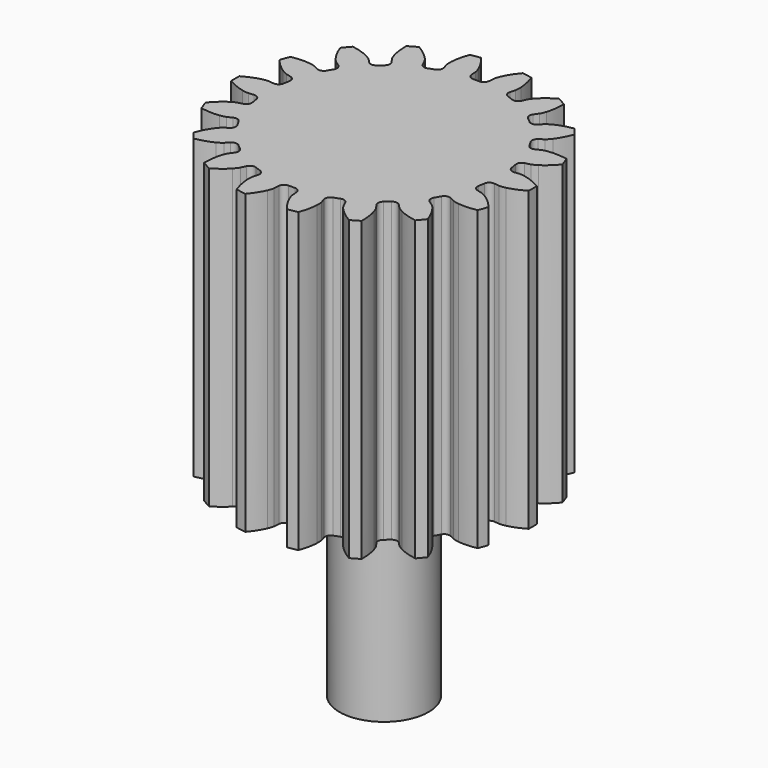
from build123d import *

# Parameters (mm, degrees)
PAD_DEPTH    = 40
SKETCH001_R  = 6
PAD001_DEPTH = 26.5


with BuildPart() as part:
    # InvoluteGear → Pad (new body)
    with BuildSketch(Plane.XY):
        with BuildLine():
            Line((16.148031, -1.655623), (16.861014, -1.727203))
            add(Edge.make_bspline(
                [(16.861014, -1.727203), (16.952403, -1.73071), (17.227358, -1.729693), (17.686584, -1.629099)],
                knots=[0, 0, 0, 0, 1, 1, 1, 1], degree=3))
            add(Edge.make_bspline(
                [(17.686584, -1.629099), (18.235477, -1.506825), (19.023934, -1.243407), (19.990683, -0.680651)],
                knots=[0, 0, 0, 0, 1, 1, 1, 1], degree=3))
            ThreePointArc((19.990683, -0.680651), (20.002268, 0), (19.990683, 0.680651))
            add(Edge.make_bspline(
                [(19.990683, 0.680651), (19.023934, 1.243407), (18.235477, 1.506825), (17.686584, 1.629099)],
                knots=[0, 0, 0, 0, 1, 1, 1, 1], degree=3))
            add(Edge.make_bspline(
                [(17.686584, 1.629099), (17.227358, 1.729693), (16.952403, 1.73071), (16.861014, 1.727203)],
                knots=[0, 0, 0, 0, 1, 1, 1, 1], degree=3))
            Line((16.861014, 1.727203), (16.148031, 1.655623))
            ThreePointArc((16.148031, 1.655623), (15.611915, 1.809049), (15.329886, 2.29011))
            ThreePointArc((15.329886, 2.29011), (15.26452, 2.691547), (15.188644, 3.09113))
            ThreePointArc((15.188644, 3.09113), (15.289133, 3.639639), (15.740442, 3.967175))
            Line((15.740442, 3.967175), (16.434909, 4.143766))
            add(Edge.make_bspline(
                [(16.434909, 4.143766), (16.521986, 4.171728), (16.780011, 4.266723), (17.177137, 4.518316)],
                knots=[0, 0, 0, 0, 1, 1, 1, 1], degree=3))
            add(Edge.make_bspline(
                [(17.177137, 4.518316), (17.651107, 4.820948), (18.301921, 5.338148), (19.017893, 6.197614)],
                knots=[0, 0, 0, 0, 1, 1, 1, 1], degree=3))
            ThreePointArc((19.017893, 6.197614), (18.795984, 6.841179), (18.552301, 7.476819))
            add(Edge.make_bspline(
                [(18.552301, 7.476819), (17.45138, 7.674989), (16.620378, 7.652853), (16.062768, 7.58002)],
                knots=[0, 0, 0, 0, 1, 1, 1, 1], degree=3))
            add(Edge.make_bspline(
                [(16.062768, 7.58002), (15.596831, 7.517484), (15.33811, 7.424399), (15.253432, 7.389847)],
                knots=[0, 0, 0, 0, 1, 1, 1, 1], degree=3))
            Line((15.253432, 7.389847), (14.607929, 7.078729))
            ThreePointArc((14.607929, 7.078729), (14.05167, 7.03954), (13.622117, 7.39513))
            ThreePointArc((13.622117, 7.39513), (13.423394, 7.75), (13.215428, 8.099534))
            ThreePointArc((13.215428, 8.099534), (13.122255, 8.649333), (13.434324, 9.111474))
            Line((13.434324, 9.111474), (14.026511, 9.514937))
            add(Edge.make_bspline(
                [(14.026511, 9.514937), (14.098773, 9.570993), (14.308747, 9.74851), (14.595874, 10.120755)],
                knots=[0, 0, 0, 0, 1, 1, 1, 1], degree=3))
            add(Edge.make_bspline(
                [(14.595874, 10.120755), (14.937754, 10.567244), (15.372425, 11.275844), (15.751265, 12.328354)],
                knots=[0, 0, 0, 0, 1, 1, 1, 1], degree=3))
            ThreePointArc((15.751265, 12.328354), (15.322626, 12.85721), (14.876238, 13.371172))
            add(Edge.make_bspline(
                [(14.876238, 13.371172), (13.773932, 13.180854), (13.000617, 12.875833), (12.501545, 12.616679)],
                knots=[0, 0, 0, 0, 1, 1, 1, 1], degree=3))
            add(Edge.make_bspline(
                [(12.501545, 12.616679), (12.085096, 12.398554), (11.873815, 12.222595), (11.806061, 12.161166)],
                knots=[0, 0, 0, 0, 1, 1, 1, 1], degree=3))
            Line((11.806061, 12.161166), (11.305896, 11.648035))
            ThreePointArc((11.305896, 11.648035), (10.796586, 11.420958), (10.271319, 11.608187))
            ThreePointArc((10.271319, 11.608187), (9.963208, 11.873689), (9.648237, 12.131015))
            ThreePointArc((9.648237, 12.131015), (9.37264, 12.61579), (9.507827, 13.156794))
            Line((9.507827, 13.156794), (9.926309, 13.738465))
            add(Edge.make_bspline(
                [(9.926309, 13.738465), (9.97504, 13.815856), (10.111637, 14.054483), (10.254133, 14.502481)],
                knots=[0, 0, 0, 0, 1, 1, 1, 1], degree=3))
            add(Edge.make_bspline(
                [(10.254133, 14.502481), (10.422687, 15.038974), (10.588789, 15.853507), (10.584802, 16.972114)],
                knots=[0, 0, 0, 0, 1, 1, 1, 1], degree=3))
            ThreePointArc((10.584802, 16.972114), (10.001134, 17.322472), (9.40588, 17.652764))
            add(Edge.make_bspline(
                [(9.40588, 17.652764), (8.435145, 17.096914), (7.81279, 16.545799), (7.432451, 16.13158)],
                knots=[0, 0, 0, 0, 1, 1, 1, 1], degree=3))
            add(Edge.make_bspline(
                [(7.432451, 16.13158), (7.115721, 15.784176), (6.977362, 15.546567), (6.934705, 15.465668)],
                knots=[0, 0, 0, 0, 1, 1, 1, 1], degree=3))
            Line((6.934705, 15.465668), (6.640204, 14.812417))
            ThreePointArc((6.640204, 14.812417), (6.239275, 14.42484), (5.681649, 14.421126))
            ThreePointArc((5.681649, 14.421126), (5.301312, 14.565236), (4.917325, 14.699317))
            ThreePointArc((4.917325, 14.699317), (4.492547, 15.060597), (4.434547, 15.61521))
            Line((4.434547, 15.61521), (4.628848, 16.304932))
            add(Edge.make_bspline(
                [(4.628848, 16.304932), (4.648171, 16.394323), (4.694915, 16.665277), (4.675592, 17.134995)],
                knots=[0, 0, 0, 0, 1, 1, 1, 1], degree=3))
            add(Edge.make_bspline(
                [(4.675592, 17.134995), (4.65049, 17.696781), (4.527988, 18.519002), (4.141656, 19.568786)],
                knots=[0, 0, 0, 0, 1, 1, 1, 1], degree=3))
            ThreePointArc((4.141656, 19.568786), (3.473357, 19.698389), (2.801035, 19.805173))
            add(Edge.make_bspline(
                [(2.801035, 19.805173), (2.078955, 18.950833), (1.682624, 18.220096), (1.466894, 17.700775)],
                knots=[0, 0, 0, 0, 1, 1, 1, 1], degree=3))
            add(Edge.make_bspline(
                [(1.466894, 17.700775), (1.288084, 17.265994), (1.239337, 16.995392), (1.226921, 16.904783)],
                knots=[0, 0, 0, 0, 1, 1, 1, 1], degree=3))
            Line((1.226921, 16.904783), (1.173606, 16.190202))
            ThreePointArc((1.173606, 16.190202), (0.929415, 15.688873), (0.406688, 15.494664))
            ThreePointArc((0.406688, 15.494664), (0, 15.5), (-0.406688, 15.494664))
            ThreePointArc((-0.406688, 15.494664), (-0.929415, 15.688873), (-1.173606, 16.190202))
            Line((-1.173606, 16.190202), (-1.226921, 16.904783))
            add(Edge.make_bspline(
                [(-1.226921, 16.904783), (-1.239337, 16.995392), (-1.288084, 17.265994), (-1.466894, 17.700775)],
                knots=[0, 0, 0, 0, 1, 1, 1, 1], degree=3))
            add(Edge.make_bspline(
                [(-1.466894, 17.700775), (-1.682624, 18.220096), (-2.078955, 18.950833), (-2.801035, 19.805173)],
                knots=[0, 0, 0, 0, 1, 1, 1, 1], degree=3))
            ThreePointArc((-2.801035, 19.805173), (-3.473357, 19.698389), (-4.141656, 19.568786))
            add(Edge.make_bspline(
                [(-4.141656, 19.568786), (-4.527988, 18.519002), (-4.65049, 17.696781), (-4.675592, 17.134995)],
                knots=[0, 0, 0, 0, 1, 1, 1, 1], degree=3))
            add(Edge.make_bspline(
                [(-4.675592, 17.134995), (-4.694915, 16.665277), (-4.648171, 16.394323), (-4.628848, 16.304932)],
                knots=[0, 0, 0, 0, 1, 1, 1, 1], degree=3))
            Line((-4.628848, 16.304932), (-4.434547, 15.61521))
            ThreePointArc((-4.434547, 15.61521), (-4.492547, 15.060597), (-4.917325, 14.699317))
            ThreePointArc((-4.917325, 14.699317), (-5.301312, 14.565236), (-5.681649, 14.421126))
            ThreePointArc((-5.681649, 14.421126), (-6.239275, 14.42484), (-6.640204, 14.812417))
            Line((-6.640204, 14.812417), (-6.934705, 15.465668))
            add(Edge.make_bspline(
                [(-6.934705, 15.465668), (-6.977362, 15.546567), (-7.115721, 15.784176), (-7.432451, 16.13158)],
                knots=[0, 0, 0, 0, 1, 1, 1, 1], degree=3))
            add(Edge.make_bspline(
                [(-7.432451, 16.13158), (-7.81279, 16.545799), (-8.435145, 17.096914), (-9.40588, 17.652764)],
                knots=[0, 0, 0, 0, 1, 1, 1, 1], degree=3))
            ThreePointArc((-9.40588, 17.652764), (-10.001134, 17.322472), (-10.584802, 16.972114))
            add(Edge.make_bspline(
                [(-10.584802, 16.972114), (-10.588789, 15.853507), (-10.422687, 15.038974), (-10.254133, 14.502481)],
                knots=[0, 0, 0, 0, 1, 1, 1, 1], degree=3))
            add(Edge.make_bspline(
                [(-10.254133, 14.502481), (-10.111637, 14.054483), (-9.97504, 13.815856), (-9.926309, 13.738465)],
                knots=[0, 0, 0, 0, 1, 1, 1, 1], degree=3))
            Line((-9.926309, 13.738465), (-9.507827, 13.156794))
            ThreePointArc((-9.507827, 13.156794), (-9.37264, 12.61579), (-9.648237, 12.131015))
            ThreePointArc((-9.648237, 12.131015), (-9.963208, 11.873689), (-10.271319, 11.608187))
            ThreePointArc((-10.271319, 11.608187), (-10.796586, 11.420958), (-11.305896, 11.648035))
            Line((-11.305896, 11.648035), (-11.806061, 12.161166))
            add(Edge.make_bspline(
                [(-11.806061, 12.161166), (-11.873815, 12.222595), (-12.085096, 12.398554), (-12.501545, 12.616679)],
                knots=[0, 0, 0, 0, 1, 1, 1, 1], degree=3))
            add(Edge.make_bspline(
                [(-12.501545, 12.616679), (-13.000617, 12.875833), (-13.773932, 13.180854), (-14.876238, 13.371172)],
                knots=[0, 0, 0, 0, 1, 1, 1, 1], degree=3))
            ThreePointArc((-14.876238, 13.371172), (-15.322626, 12.85721), (-15.751265, 12.328354))
            add(Edge.make_bspline(
                [(-15.751265, 12.328354), (-15.372425, 11.275844), (-14.937754, 10.567244), (-14.595874, 10.120755)],
                knots=[0, 0, 0, 0, 1, 1, 1, 1], degree=3))
            add(Edge.make_bspline(
                [(-14.595874, 10.120755), (-14.308747, 9.74851), (-14.098773, 9.570993), (-14.026511, 9.514937)],
                knots=[0, 0, 0, 0, 1, 1, 1, 1], degree=3))
            Line((-14.026511, 9.514937), (-13.434324, 9.111474))
            ThreePointArc((-13.434324, 9.111474), (-13.122255, 8.649333), (-13.215428, 8.099534))
            ThreePointArc((-13.215428, 8.099534), (-13.423394, 7.75), (-13.622117, 7.39513))
            ThreePointArc((-13.622117, 7.39513), (-14.05167, 7.03954), (-14.607929, 7.078729))
            Line((-14.607929, 7.078729), (-15.253432, 7.389847))
            add(Edge.make_bspline(
                [(-15.253432, 7.389847), (-15.33811, 7.424399), (-15.596831, 7.517484), (-16.062768, 7.58002)],
                knots=[0, 0, 0, 0, 1, 1, 1, 1], degree=3))
            add(Edge.make_bspline(
                [(-16.062768, 7.58002), (-16.620378, 7.652853), (-17.45138, 7.674989), (-18.552301, 7.476819)],
                knots=[0, 0, 0, 0, 1, 1, 1, 1], degree=3))
            ThreePointArc((-18.552301, 7.476819), (-18.795984, 6.841179), (-19.017893, 6.197614))
            add(Edge.make_bspline(
                [(-19.017893, 6.197614), (-18.301921, 5.338148), (-17.651107, 4.820948), (-17.177137, 4.518316)],
                knots=[0, 0, 0, 0, 1, 1, 1, 1], degree=3))
            add(Edge.make_bspline(
                [(-17.177137, 4.518316), (-16.780011, 4.266723), (-16.521986, 4.171728), (-16.434909, 4.143766)],
                knots=[0, 0, 0, 0, 1, 1, 1, 1], degree=3))
            Line((-16.434909, 4.143766), (-15.740442, 3.967175))
            ThreePointArc((-15.740442, 3.967175), (-15.289133, 3.639639), (-15.188644, 3.09113))
            ThreePointArc((-15.188644, 3.09113), (-15.26452, 2.691547), (-15.329886, 2.29011))
            ThreePointArc((-15.329886, 2.29011), (-15.611915, 1.809049), (-16.148031, 1.655623))
            Line((-16.148031, 1.655623), (-16.861014, 1.727203))
            add(Edge.make_bspline(
                [(-16.861014, 1.727203), (-16.952403, 1.73071), (-17.227358, 1.729693), (-17.686584, 1.629099)],
                knots=[0, 0, 0, 0, 1, 1, 1, 1], degree=3))
            add(Edge.make_bspline(
                [(-17.686584, 1.629099), (-18.235477, 1.506825), (-19.023934, 1.243407), (-19.990683, 0.680651)],
                knots=[0, 0, 0, 0, 1, 1, 1, 1], degree=3))
            ThreePointArc((-19.990683, 0.680651), (-20.002268, 0), (-19.990683, -0.680651))
            add(Edge.make_bspline(
                [(-19.990683, -0.680651), (-19.023934, -1.243407), (-18.235477, -1.506825), (-17.686584, -1.629099)],
                knots=[0, 0, 0, 0, 1, 1, 1, 1], degree=3))
            add(Edge.make_bspline(
                [(-17.686584, -1.629099), (-17.227358, -1.729693), (-16.952403, -1.73071), (-16.861014, -1.727203)],
                knots=[0, 0, 0, 0, 1, 1, 1, 1], degree=3))
            Line((-16.861014, -1.727203), (-16.148031, -1.655623))
            ThreePointArc((-16.148031, -1.655623), (-15.611915, -1.809049), (-15.329886, -2.29011))
            ThreePointArc((-15.329886, -2.29011), (-15.26452, -2.691547), (-15.188644, -3.09113))
            ThreePointArc((-15.188644, -3.09113), (-15.289133, -3.639639), (-15.740442, -3.967175))
            Line((-15.740442, -3.967175), (-16.434909, -4.143766))
            add(Edge.make_bspline(
                [(-16.434909, -4.143766), (-16.521986, -4.171728), (-16.780011, -4.266723), (-17.177137, -4.518316)],
                knots=[0, 0, 0, 0, 1, 1, 1, 1], degree=3))
            add(Edge.make_bspline(
                [(-17.177137, -4.518316), (-17.651107, -4.820948), (-18.301921, -5.338148), (-19.017893, -6.197614)],
                knots=[0, 0, 0, 0, 1, 1, 1, 1], degree=3))
            ThreePointArc((-19.017893, -6.197614), (-18.795984, -6.841179), (-18.552301, -7.476819))
            add(Edge.make_bspline(
                [(-18.552301, -7.476819), (-17.45138, -7.674989), (-16.620378, -7.652853), (-16.062768, -7.58002)],
                knots=[0, 0, 0, 0, 1, 1, 1, 1], degree=3))
            add(Edge.make_bspline(
                [(-16.062768, -7.58002), (-15.596831, -7.517484), (-15.33811, -7.424399), (-15.253432, -7.389847)],
                knots=[0, 0, 0, 0, 1, 1, 1, 1], degree=3))
            Line((-15.253432, -7.389847), (-14.607929, -7.078729))
            ThreePointArc((-14.607929, -7.078729), (-14.05167, -7.03954), (-13.622117, -7.39513))
            ThreePointArc((-13.622117, -7.39513), (-13.423394, -7.75), (-13.215428, -8.099534))
            ThreePointArc((-13.215428, -8.099534), (-13.122255, -8.649333), (-13.434324, -9.111474))
            Line((-13.434324, -9.111474), (-14.026511, -9.514937))
            add(Edge.make_bspline(
                [(-14.026511, -9.514937), (-14.098773, -9.570993), (-14.308747, -9.74851), (-14.595874, -10.120755)],
                knots=[0, 0, 0, 0, 1, 1, 1, 1], degree=3))
            add(Edge.make_bspline(
                [(-14.595874, -10.120755), (-14.937754, -10.567244), (-15.372425, -11.275844), (-15.751265, -12.328354)],
                knots=[0, 0, 0, 0, 1, 1, 1, 1], degree=3))
            ThreePointArc((-15.751265, -12.328354), (-15.322626, -12.85721), (-14.876238, -13.371172))
            add(Edge.make_bspline(
                [(-14.876238, -13.371172), (-13.773932, -13.180854), (-13.000617, -12.875833), (-12.501545, -12.616679)],
                knots=[0, 0, 0, 0, 1, 1, 1, 1], degree=3))
            add(Edge.make_bspline(
                [(-12.501545, -12.616679), (-12.085096, -12.398554), (-11.873815, -12.222595), (-11.806061, -12.161166)],
                knots=[0, 0, 0, 0, 1, 1, 1, 1], degree=3))
            Line((-11.806061, -12.161166), (-11.305896, -11.648035))
            ThreePointArc((-11.305896, -11.648035), (-10.796586, -11.420958), (-10.271319, -11.608187))
            ThreePointArc((-10.271319, -11.608187), (-9.963208, -11.873689), (-9.648237, -12.131015))
            ThreePointArc((-9.648237, -12.131015), (-9.37264, -12.61579), (-9.507827, -13.156794))
            Line((-9.507827, -13.156794), (-9.926309, -13.738465))
            add(Edge.make_bspline(
                [(-9.926309, -13.738465), (-9.97504, -13.815856), (-10.111637, -14.054483), (-10.254133, -14.502481)],
                knots=[0, 0, 0, 0, 1, 1, 1, 1], degree=3))
            add(Edge.make_bspline(
                [(-10.254133, -14.502481), (-10.422687, -15.038974), (-10.588789, -15.853507), (-10.584802, -16.972114)],
                knots=[0, 0, 0, 0, 1, 1, 1, 1], degree=3))
            ThreePointArc((-10.584802, -16.972114), (-10.001134, -17.322472), (-9.40588, -17.652764))
            add(Edge.make_bspline(
                [(-9.40588, -17.652764), (-8.435145, -17.096914), (-7.81279, -16.545799), (-7.432451, -16.13158)],
                knots=[0, 0, 0, 0, 1, 1, 1, 1], degree=3))
            add(Edge.make_bspline(
                [(-7.432451, -16.13158), (-7.115721, -15.784176), (-6.977362, -15.546567), (-6.934705, -15.465668)],
                knots=[0, 0, 0, 0, 1, 1, 1, 1], degree=3))
            Line((-6.934705, -15.465668), (-6.640204, -14.812417))
            ThreePointArc((-6.640204, -14.812417), (-6.239275, -14.42484), (-5.681649, -14.421126))
            ThreePointArc((-5.681649, -14.421126), (-5.301312, -14.565236), (-4.917325, -14.699317))
            ThreePointArc((-4.917325, -14.699317), (-4.492547, -15.060597), (-4.434547, -15.61521))
            Line((-4.434547, -15.61521), (-4.628848, -16.304932))
            add(Edge.make_bspline(
                [(-4.628848, -16.304932), (-4.648171, -16.394323), (-4.694915, -16.665277), (-4.675592, -17.134995)],
                knots=[0, 0, 0, 0, 1, 1, 1, 1], degree=3))
            add(Edge.make_bspline(
                [(-4.675592, -17.134995), (-4.65049, -17.696781), (-4.527988, -18.519002), (-4.141656, -19.568786)],
                knots=[0, 0, 0, 0, 1, 1, 1, 1], degree=3))
            ThreePointArc((-4.141656, -19.568786), (-3.473357, -19.698389), (-2.801035, -19.805173))
            add(Edge.make_bspline(
                [(-2.801035, -19.805173), (-2.078955, -18.950833), (-1.682624, -18.220096), (-1.466894, -17.700775)],
                knots=[0, 0, 0, 0, 1, 1, 1, 1], degree=3))
            add(Edge.make_bspline(
                [(-1.466894, -17.700775), (-1.288084, -17.265994), (-1.239337, -16.995392), (-1.226921, -16.904783)],
                knots=[0, 0, 0, 0, 1, 1, 1, 1], degree=3))
            Line((-1.226921, -16.904783), (-1.173606, -16.190202))
            ThreePointArc((-1.173606, -16.190202), (-0.929415, -15.688873), (-0.406688, -15.494664))
            ThreePointArc((-0.406688, -15.494664), (0, -15.5), (0.406688, -15.494664))
            ThreePointArc((0.406688, -15.494664), (0.929415, -15.688873), (1.173606, -16.190202))
            Line((1.173606, -16.190202), (1.226921, -16.904783))
            add(Edge.make_bspline(
                [(1.226921, -16.904783), (1.239337, -16.995392), (1.288084, -17.265994), (1.466894, -17.700775)],
                knots=[0, 0, 0, 0, 1, 1, 1, 1], degree=3))
            add(Edge.make_bspline(
                [(1.466894, -17.700775), (1.682624, -18.220096), (2.078955, -18.950833), (2.801035, -19.805173)],
                knots=[0, 0, 0, 0, 1, 1, 1, 1], degree=3))
            ThreePointArc((2.801035, -19.805173), (3.473357, -19.698389), (4.141656, -19.568786))
            add(Edge.make_bspline(
                [(4.141656, -19.568786), (4.527988, -18.519002), (4.65049, -17.696781), (4.675592, -17.134995)],
                knots=[0, 0, 0, 0, 1, 1, 1, 1], degree=3))
            add(Edge.make_bspline(
                [(4.675592, -17.134995), (4.694915, -16.665277), (4.648171, -16.394323), (4.628848, -16.304932)],
                knots=[0, 0, 0, 0, 1, 1, 1, 1], degree=3))
            Line((4.628848, -16.304932), (4.434547, -15.61521))
            ThreePointArc((4.434547, -15.61521), (4.492547, -15.060597), (4.917325, -14.699317))
            ThreePointArc((4.917325, -14.699317), (5.301312, -14.565236), (5.681649, -14.421126))
            ThreePointArc((5.681649, -14.421126), (6.239275, -14.42484), (6.640204, -14.812417))
            Line((6.640204, -14.812417), (6.934705, -15.465668))
            add(Edge.make_bspline(
                [(6.934705, -15.465668), (6.977362, -15.546567), (7.115721, -15.784176), (7.432451, -16.13158)],
                knots=[0, 0, 0, 0, 1, 1, 1, 1], degree=3))
            add(Edge.make_bspline(
                [(7.432451, -16.13158), (7.81279, -16.545799), (8.435145, -17.096914), (9.40588, -17.652764)],
                knots=[0, 0, 0, 0, 1, 1, 1, 1], degree=3))
            ThreePointArc((9.40588, -17.652764), (10.001134, -17.322472), (10.584802, -16.972114))
            add(Edge.make_bspline(
                [(10.584802, -16.972114), (10.588789, -15.853507), (10.422687, -15.038974), (10.254133, -14.502481)],
                knots=[0, 0, 0, 0, 1, 1, 1, 1], degree=3))
            add(Edge.make_bspline(
                [(10.254133, -14.502481), (10.111637, -14.054483), (9.97504, -13.815856), (9.926309, -13.738465)],
                knots=[0, 0, 0, 0, 1, 1, 1, 1], degree=3))
            Line((9.926309, -13.738465), (9.507827, -13.156794))
            ThreePointArc((9.507827, -13.156794), (9.37264, -12.61579), (9.648237, -12.131015))
            ThreePointArc((9.648237, -12.131015), (9.963208, -11.873689), (10.271319, -11.608187))
            ThreePointArc((10.271319, -11.608187), (10.796586, -11.420958), (11.305896, -11.648035))
            Line((11.305896, -11.648035), (11.806061, -12.161166))
            add(Edge.make_bspline(
                [(11.806061, -12.161166), (11.873815, -12.222595), (12.085096, -12.398554), (12.501545, -12.616679)],
                knots=[0, 0, 0, 0, 1, 1, 1, 1], degree=3))
            add(Edge.make_bspline(
                [(12.501545, -12.616679), (13.000617, -12.875833), (13.773932, -13.180854), (14.876238, -13.371172)],
                knots=[0, 0, 0, 0, 1, 1, 1, 1], degree=3))
            ThreePointArc((14.876238, -13.371172), (15.322626, -12.85721), (15.751265, -12.328354))
            add(Edge.make_bspline(
                [(15.751265, -12.328354), (15.372425, -11.275844), (14.937754, -10.567244), (14.595874, -10.120755)],
                knots=[0, 0, 0, 0, 1, 1, 1, 1], degree=3))
            add(Edge.make_bspline(
                [(14.595874, -10.120755), (14.308747, -9.74851), (14.098773, -9.570993), (14.026511, -9.514937)],
                knots=[0, 0, 0, 0, 1, 1, 1, 1], degree=3))
            Line((14.026511, -9.514937), (13.434324, -9.111474))
            ThreePointArc((13.434324, -9.111474), (13.122255, -8.649333), (13.215428, -8.099534))
            ThreePointArc((13.215428, -8.099534), (13.423394, -7.75), (13.622117, -7.39513))
            ThreePointArc((13.622117, -7.39513), (14.05167, -7.03954), (14.607929, -7.078729))
            Line((14.607929, -7.078729), (15.253432, -7.389847))
            add(Edge.make_bspline(
                [(15.253432, -7.389847), (15.33811, -7.424399), (15.596831, -7.517484), (16.062768, -7.58002)],
                knots=[0, 0, 0, 0, 1, 1, 1, 1], degree=3))
            add(Edge.make_bspline(
                [(16.062768, -7.58002), (16.620378, -7.652853), (17.45138, -7.674989), (18.552301, -7.476819)],
                knots=[0, 0, 0, 0, 1, 1, 1, 1], degree=3))
            ThreePointArc((18.552301, -7.476819), (18.795984, -6.841179), (19.017893, -6.197614))
            add(Edge.make_bspline(
                [(19.017893, -6.197614), (18.301921, -5.338148), (17.651107, -4.820948), (17.177137, -4.518316)],
                knots=[0, 0, 0, 0, 1, 1, 1, 1], degree=3))
            add(Edge.make_bspline(
                [(17.177137, -4.518316), (16.780011, -4.266723), (16.521986, -4.171728), (16.434909, -4.143766)],
                knots=[0, 0, 0, 0, 1, 1, 1, 1], degree=3))
            Line((16.434909, -4.143766), (15.740442, -3.967175))
            ThreePointArc((15.740442, -3.967175), (15.289133, -3.639639), (15.188644, -3.09113))
            ThreePointArc((15.188644, -3.09113), (15.26452, -2.691547), (15.329886, -2.29011))
            ThreePointArc((15.329886, -2.29011), (15.611915, -1.809049), (16.148031, -1.655623))
        make_face()
    extrude(amount=PAD_DEPTH)

    # Sketch001 (on Face181 of Pad) → Pad001 (join)
    with BuildSketch(Plane(origin=(0, 0, 0), x_dir=(1, 0, 0), z_dir=(0, 0, -1))):
        Circle(SKETCH001_R)
    extrude(amount=PAD001_DEPTH)


solid = part.part
